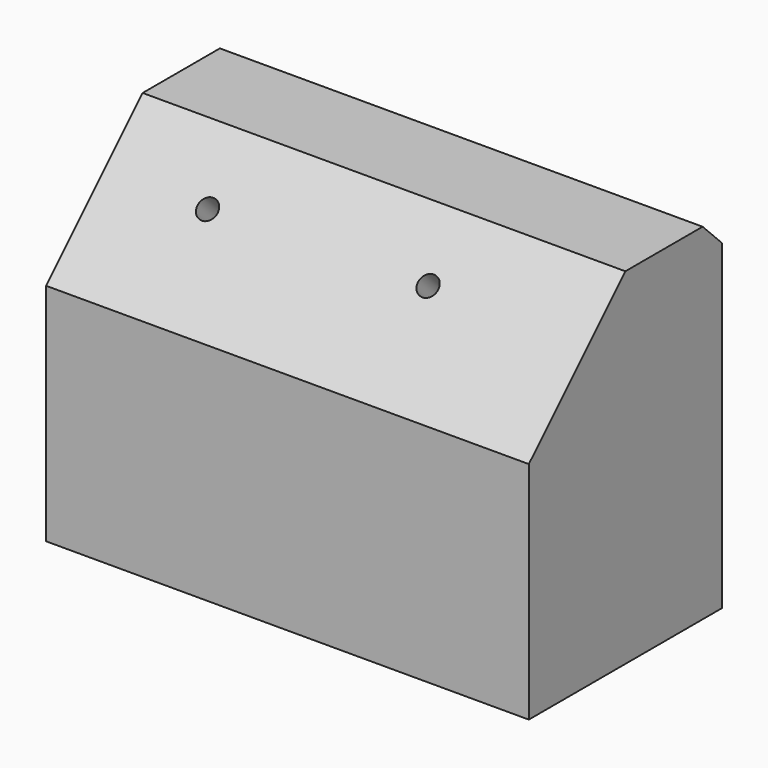
from build123d import *

# Parameters (mm, degrees)
F0_W     = 100
F0_H     = 50
F1_DEPTH = 71.6
F2_SIZE  = 25
F4_D     = 4.2
F5_SIZE  = 5


with BuildPart() as f1:
    # F0 (on Top) → F1 (new body)
    with BuildSketch(Plane.XY):
        with Locations((50, 25)):
            Rectangle(F0_W, F0_H)
    extrude(amount=F1_DEPTH)

    # F2
    f2_edges = [f1.edges().sort_by_distance(p)[0] for p in [
        (50, 0, 71.6),
    ]]
    chamfer(f2_edges, length=F2_SIZE)

    # F4 (through all)
    with Locations(Plane(origin=(0, -23.3, 23.3), x_dir=(1, 0, 0), z_dir=(0, -0.7071067812, 0.7071067812))):
        with Locations((66.7982175946, 54.7630861402), (21.5294957161, 54.0269054472)):
            Hole(F4_D / 2)

    # F5
    f5_edges = [f1.edges().sort_by_distance(p)[0] for p in [
        (50, 50, 71.6),
    ]]
    chamfer(f5_edges, length=F5_SIZE)


solid = f1.part
